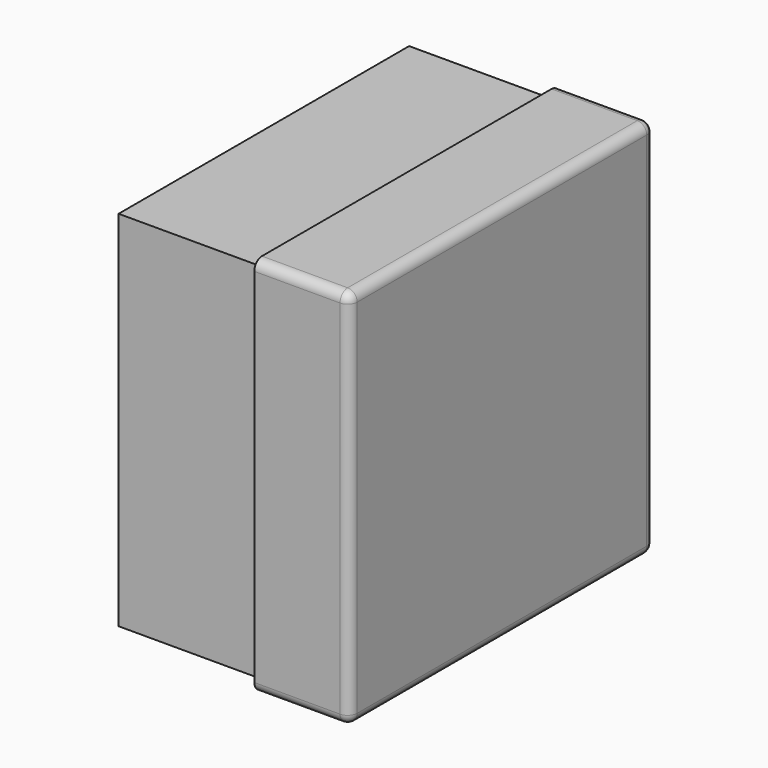
from build123d import *

# Parameters (mm, degrees)
F0_W     = 203.2
F0_H     = 203.2
F1_DEPTH = 127
F2_W     = 203.2
F2_H     = 203.2
F2_W_2   = 193.675
F2_H_2   = 193.675
F3_DEPTH = 76.2
F4_R     = 5.08


with BuildPart() as f1:
    # F0 (on Right) → F1 (new body)
    with BuildSketch(Plane.YZ):
        Rectangle(F0_W, F0_H)
    extrude(amount=F1_DEPTH)

    # F2 (on face) → F3 (cut)
    with BuildSketch(Plane(origin=(0, 0, 0), x_dir=(0, -1, 0), z_dir=(-1, 0, 0))):
        Rectangle(F2_W, F2_H)
        Rectangle(F2_W_2, F2_H_2, mode=Mode.SUBTRACT)
    extrude(amount=-F3_DEPTH, mode=Mode.SUBTRACT)

    # F4
    f4_edges = [f1.edges().sort_by_distance(p)[0] for p in [
        (101.6, 101.6, 101.6),
        (127, 101.6, 0),
        (101.6, 101.6, -101.6),
        (127, 0, -101.6),
        (127, 0, 101.6),
        (127, -101.6, 0),
        (101.6, -101.6, 101.6),
        (101.6, -101.6, -101.6),
    ]]
    fillet(f4_edges, radius=F4_R)


solid = f1.part
